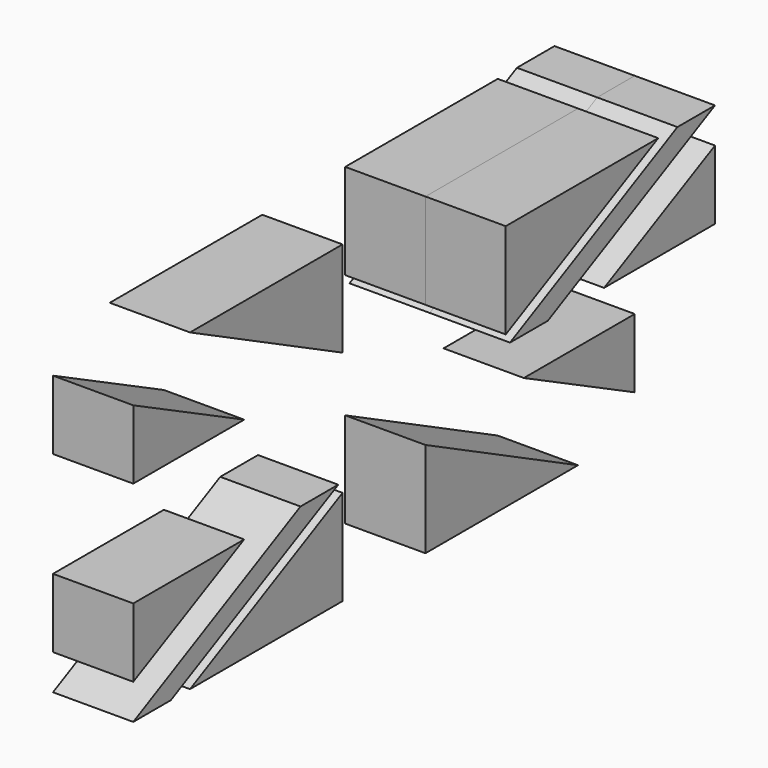
from build123d import *

# Parameters (mm, degrees)
F1_DEPTH = 25.4
F2_DEPTH = 25.4
F3_DEPTH = 25.4
F4_DEPTH = 25.4


with BuildPart() as f1:
    # F0 (on Right) → F1 (new body)
    with BuildSketch(Plane.YZ):
        Polygon((99.188678, 32.778401), (55.31371, 10.950533), (99.188678, 10.950533), align=None)
    extrude(amount=F1_DEPTH)


with BuildPart() as f2:
    # F0 (on Right) → F2 (new body)
    with BuildSketch(Plane.YZ):
        Polygon((18.099664, 10.830818), (33.037685, 10.830818), (99.188678, 43.959372), (84.329478, 43.959372), align=None)
    extrude(amount=F2_DEPTH)


with BuildPart() as f3:
    # F0 (on Right) → F3 (new body)
    with BuildSketch(Plane.YZ):
        Polygon((16.402107, 43.959372), (16.402107, 13.792999), (76.742783, 43.959372), align=None)
    extrude(amount=F3_DEPTH)


with BuildPart() as f4:
    # F0 (on Right) + F1_face (on face) + F3_face (on face) + F2_face (on face) → F4 (new body)
    with BuildSketch(Plane.YZ):
        Polygon((-76.742783, -55.427026), (-16.402107, -55.427026), (-16.402107, -25.260653), align=None)
        Polygon((-99.188678, -55.427026), (-84.329478, -55.427026), (-18.099664, -22.298472), (-33.037685, -22.298472), align=None)
        Polygon((-99.188678, -44.246055), (-55.31371, -22.418187), (-99.188678, -22.418187), align=None)
        Polygon((76.742783, -55.427026), (16.402107, -25.260653), (16.402107, -55.427026), align=None)
        Polygon((55.31371, -22.418187), (99.188678, -44.246055), (99.188678, -22.418187), align=None)
        Polygon((-16.402107, 13.792999), (-16.402107, 43.959372), (-76.742783, 43.959372), align=None)
        Polygon((-55.31371, 10.950533), (-99.188678, 32.778401), (-99.188678, 10.950533), align=None)
    with BuildSketch(Plane(origin=(25.4, 84.563689, 18.226489), x_dir=(0, 1, 0), z_dir=(1, 0, 0))):
        Polygon((14.624989, 14.551912), (-29.249979, -7.275956), (14.624989, -7.275956), align=None)
    with BuildSketch(Plane(origin=(25.4, 36.515666, 33.903914), x_dir=(0, 1, 0), z_dir=(1, 0, 0))):
        Polygon((-20.113559, 10.055458), (-20.113559, -20.110915), (40.227118, 10.055458), align=None)
    with BuildSketch(Plane(origin=(25.4, 58.634694, 27.380489), x_dir=(0, 1, 0), z_dir=(1, 0, 0))):
        Polygon((-40.535031, -16.549671), (-25.59701, -16.549671), (40.553984, 16.578883), (25.694784, 16.578883), align=None)
    extrude(amount=F4_DEPTH)


solid = Compound([f1.part, f2.part, f3.part, f4.part])
